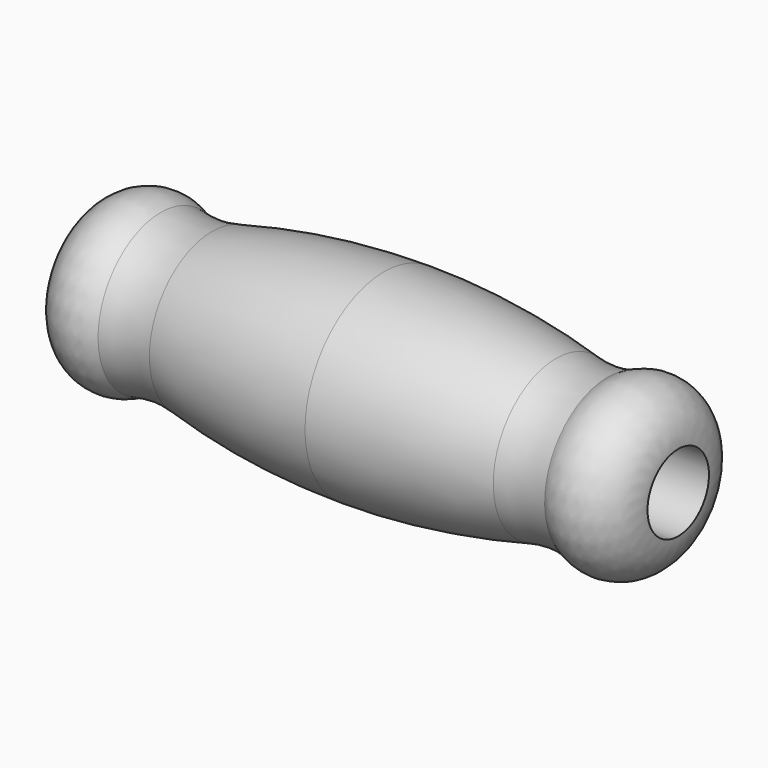
from build123d import *


with BuildPart() as f1:
    # F0 (on Front) → F1 (revolve)
    with BuildSketch(Plane.XZ):
        with BuildLine():
            ThreePointArc((0, 17.4625), (-25.037999, 15.983859), (-49.727922, 11.568492))
            ThreePointArc((-49.727922, 11.568492), (-57.15, 10.68879), (-64.572078, 11.568492))
            ThreePointArc((-64.572078, 11.568492), (-78.197333, 11.767731), (-85.068126, 0))
            Line((-85.068126, 0), (0, 0))
            Line((0, 0), (85.068126, 0))
            ThreePointArc((85.068126, 0), (78.197333, 11.767731), (64.572078, 11.568492))
            ThreePointArc((64.572078, 11.568492), (57.15, 10.68879), (49.727922, 11.568492))
            ThreePointArc((49.727922, 11.568492), (25.037999, 15.983859), (0, 17.4625))
        make_face()
    revolve(axis=Axis((-20.588728, 0, -11.1125), (1, 0, 0)))


solid = f1.part
